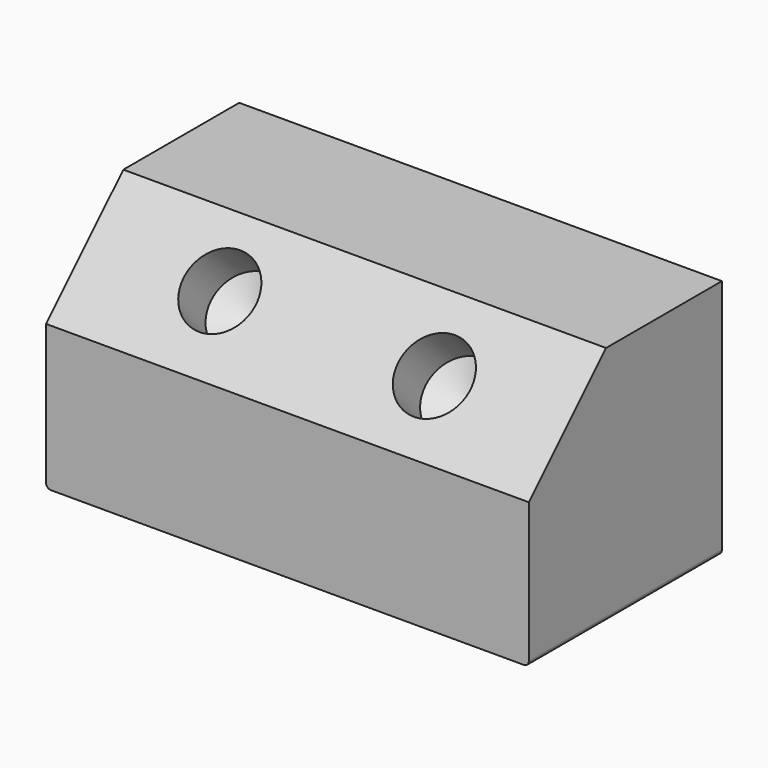
from build123d import *

# Parameters (mm, degrees)
F0_W     = 100
F0_H     = 50
F1_DEPTH = 50
F2_SIZE  = 20
F5_D     = 15
F5_DEPTH = 10
F5_TIP   = 4.5064546427
F6_D     = 15
F6_DEPTH = 10
F6_TIP   = 4.5064546427
F7_R     = 1


with BuildPart() as f1:
    # F0 (on Top) → F1 (new body)
    with BuildSketch(Plane.XY):
        with Locations((-50, -25)):
            Rectangle(F0_W, F0_H)
    extrude(amount=F1_DEPTH)

    # F2
    f2_edges = [f1.edges().sort_by_distance(p)[0] for p in [
        (-50, -50, 50),
    ]]
    chamfer(f2_edges, length=F2_SIZE)

    # F5
    with Locations(Plane(origin=(0, -40, 40), x_dir=(1, 0, 0), z_dir=(0, -0.7071067812, 0.7071067812))):
        with Locations((-27.5615938008, 0)):
            Hole(F5_D / 2, depth=F5_DEPTH)
            with Locations((0, 0, -(F5_DEPTH + F5_TIP / 2))):  # 118° drill point
                Cone(0, F5_D / 2, F5_TIP, mode=Mode.SUBTRACT)

    # F6
    with Locations(Plane(origin=(0, -40, 40), x_dir=(1, 0, 0), z_dir=(0, -0.7071067812, 0.7071067812))):
        with Locations((-72.5, 0.8578643763)):
            Hole(F6_D / 2, depth=F6_DEPTH)
            with Locations((0, 0, -(F6_DEPTH + F6_TIP / 2))):  # 118° drill point
                Cone(0, F6_D / 2, F6_TIP, mode=Mode.SUBTRACT)

    # F7
    f7_edges = [f1.edges().sort_by_distance(p)[0] for p in [
        (0, -25, 0),
        (-100, -25, 0),
    ]]
    fillet(f7_edges, radius=F7_R)


solid = f1.part
